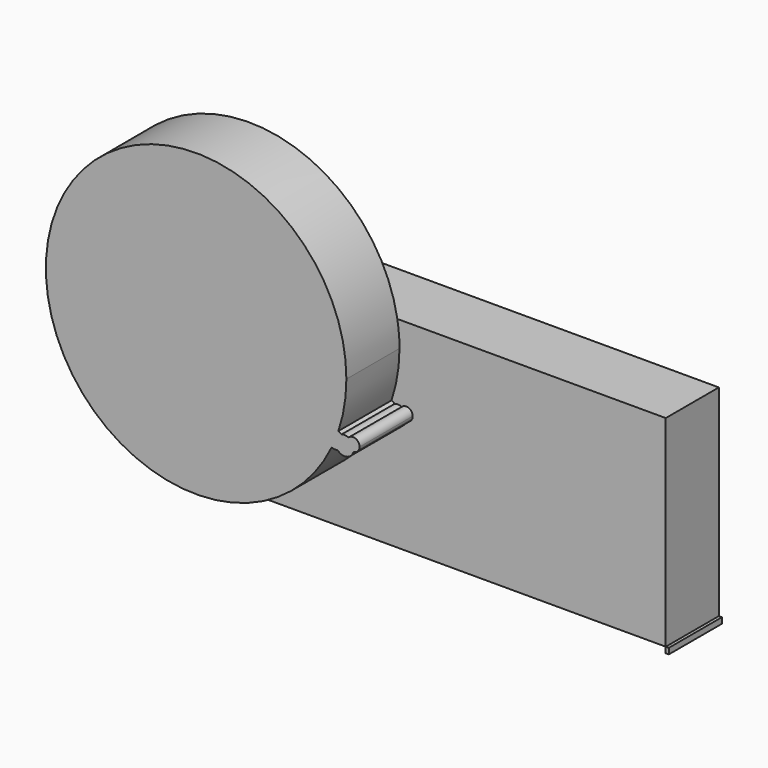
from build123d import *

# Parameters (mm, degrees)
F0_W     = 1.1727884412
F0_H     = 2.2152625024
F1_DEPTH = 25.4
F0_W_2   = 168.8810437918
F0_H_2   = 77.0128853619
F3_DEPTH = 25.4


with BuildPart() as f1:
    # F0 (on Front) → F1 (new body)
    with BuildSketch(Plane.XZ):
        with Locations((81.6388688982, -34.46684964)):
            Rectangle(F0_W, F0_H)
    extrude(amount=F1_DEPTH)


with BuildPart() as f1b:
    # F0 (on Front) → F1, piece 2 (new body)
    with BuildSketch(Plane.XZ):
        with Locations((-3.3880472183, 5.1472242922)):
            Rectangle(F0_W_2, F0_H_2)
    extrude(amount=F1_DEPTH)

    # F2 (on face) → F3 (join)
    with BuildSketch(Plane.XZ.offset(25.4)):
        with BuildLine():
            ThreePointArc((-23.8678798597, 15.4904454531), (-21.5826497557, 24.6087277634), (-20.814055479, 33.9775383472))
            ThreePointArc((-20.814055479, 33.9775383472), (-134.3577236065, 46.7039103537), (-26.4489315491, 9.1563709802))
            ThreePointArc((-26.4489315491, 9.1563709802), (-28.2325565865, 13.5760840987), (-23.8678798597, 15.4904454531))
        make_face()
        with BuildLine():
            ThreePointArc((-23.8678798597, 15.4904454531), (-28.2325565865, 13.5760840987), (-26.4489315491, 9.1563709802))
            ThreePointArc((-26.4489315491, 9.1563709802), (-25.0641160561, 12.2849864303), (-23.8678798597, 15.4904454531))
        make_face()
        with BuildLine():
            ThreePointArc((-23.8678798597, 15.4904454531), (-25.0641160561, 12.2849864303), (-26.4489315491, 9.1563709802))
            ThreePointArc((-26.4489315491, 9.1563709802), (-25.3302802912, 8.8739594318), (-24.1813622815, 8.9794313547))
            ThreePointArc((-24.1813622815, 8.9794313547), (-24.9628096472, 12.2583526219), (-22.6697847258, 14.7289843978))
            ThreePointArc((-22.6697847258, 14.7289843978), (-23.2289050258, 15.1725371326), (-23.8678798597, 15.4904454531))
        make_face()
        with BuildLine():
            ThreePointArc((-22.6697847258, 14.7289843978), (-24.9628096472, 12.2583526219), (-24.1813622815, 8.9794313547))
            ThreePointArc((-24.1813622815, 8.9794313547), (-22.3506129182, 10.2010360219), (-21.642720349, 12.2849864303))
            ThreePointArc((-21.642720349, 12.2849864303), (-21.9099201586, 13.6105039989), (-22.6697847258, 14.7289843978))
        make_face()
        with BuildLine():
            ThreePointArc((-21.642720349, 12.2849864303), (-22.3506129182, 10.2010360219), (-24.1813622815, 8.9794313547))
            ThreePointArc((-24.1813622815, 8.9794313547), (-20.740198367, 7.8584845453), (-18.0843849342, 10.3170991647))
            ThreePointArc((-18.0843849342, 10.3170991647), (-20.508644808, 11.7909236933), (-19.9688253979, 14.5762045914))
            ThreePointArc((-19.9688253979, 14.5762045914), (-21.3042917621, 14.9180111954), (-22.6697847258, 14.7289843978))
            ThreePointArc((-22.6697847258, 14.7289843978), (-21.9099201586, 13.6105039989), (-21.642720349, 12.2849864303))
        make_face()
        with BuildLine():
            ThreePointArc((-19.9688253979, 14.5762045914), (-20.508644808, 11.7909236933), (-18.0843849342, 10.3170991647))
            ThreePointArc((-18.0843849342, 10.3170991647), (-17.9703064735, 10.8277487678), (-17.9320067111, 11.3495821133))
            ThreePointArc((-17.9320067111, 11.3495821133), (-18.4838067901, 13.2574423663), (-19.9688253979, 14.5762045914))
        make_face()
        with BuildLine():
            ThreePointArc((-17.9320067111, 11.3495821133), (-17.9703064735, 10.8277487678), (-18.0843849342, 10.3170991647))
            ThreePointArc((-18.0843849342, 10.3170991647), (-16.4282646532, 11.0947728981), (-15.7542773342, 12.7957290747))
            ThreePointArc((-15.7542773342, 12.7957290747), (-17.2712212957, 15.083331993), (-19.9688253979, 14.5762045914))
            ThreePointArc((-19.9688253979, 14.5762045914), (-18.4838067901, 13.2574423663), (-17.9320067111, 11.3495821133))
        make_face()
    extrude(amount=F3_DEPTH)


solid = Compound([f1.part, f1b.part])
